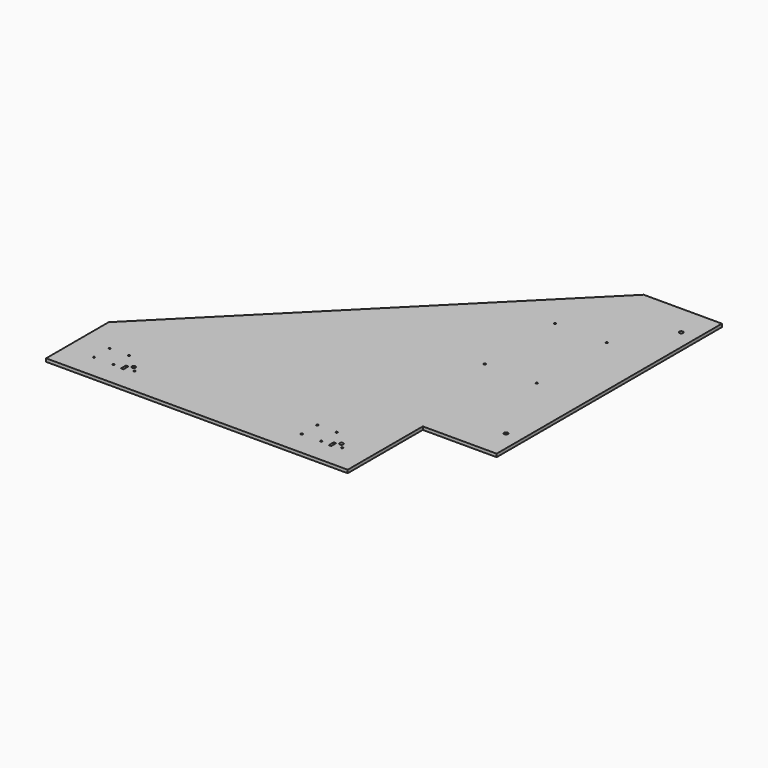
from build123d import *

# Parameters (mm, degrees)
F0_W     = 600
F0_H     = 600
F1_DEPTH = 5
F2_R     = 1.5
F2_R_2   = 3
F2_W     = 4
F2_H     = 10
F2_W_2   = 118
F2_H_2   = 150
F3_DEPTH = 5.001


with BuildPart() as f1:
    # F0 (on Top) → F1 (new body)
    with BuildSketch(Plane.XY):
        Rectangle(F0_W, F0_H)
    extrude(amount=F1_DEPTH)

    # F2 (on face) → F3 (cut, through all)
    with BuildSketch(Plane.XY.offset(5)):
        with Locations((-255, -229.5)):
            Circle(F2_R)
        with Locations((-255, -260.5)):
            Circle(F2_R)
        with Locations((-224, -229.5)):
            Circle(F2_R)
        with Locations((-224, -260.5)):
            Circle(F2_R)
        with Locations((-200, -250)):
            Circle(F2_R_2)
        with Locations((-208, -258)):
            Rectangle(F2_W, F2_H)
        with Locations((-192.5, -258)):
            Circle(F2_R)
        with Locations((77, -229.5)):
            Circle(F2_R)
        with Locations((77, -260.5)):
            Circle(F2_R)
        with Locations((108, -229.5)):
            Circle(F2_R)
        with Locations((108, -260.5)):
            Circle(F2_R)
        with Locations((132, -250)):
            Circle(F2_R_2)
        with Locations((124, -258)):
            Rectangle(F2_W, F2_H)
        with Locations((139.5, -258)):
            Circle(F2_R)
        with Locations((241, -225)):
            Rectangle(F2_W_2, F2_H_2)
        with Locations((275, -100)):
            Circle(F2_R_2)
        with Locations((275, 250)):
            Circle(F2_R_2)
        with Locations((220, 30)):
            Circle(F2_R)
        with Locations((137, 30)):
            Circle(F2_R)
        with Locations((137, 170)):
            Circle(F2_R)
        with Locations((220, 170)):
            Circle(F2_R)
        Polygon((-300, 300), (-300, -175), (175, 300), align=None)
    extrude(amount=-F3_DEPTH, mode=Mode.SUBTRACT)


solid = f1.part
